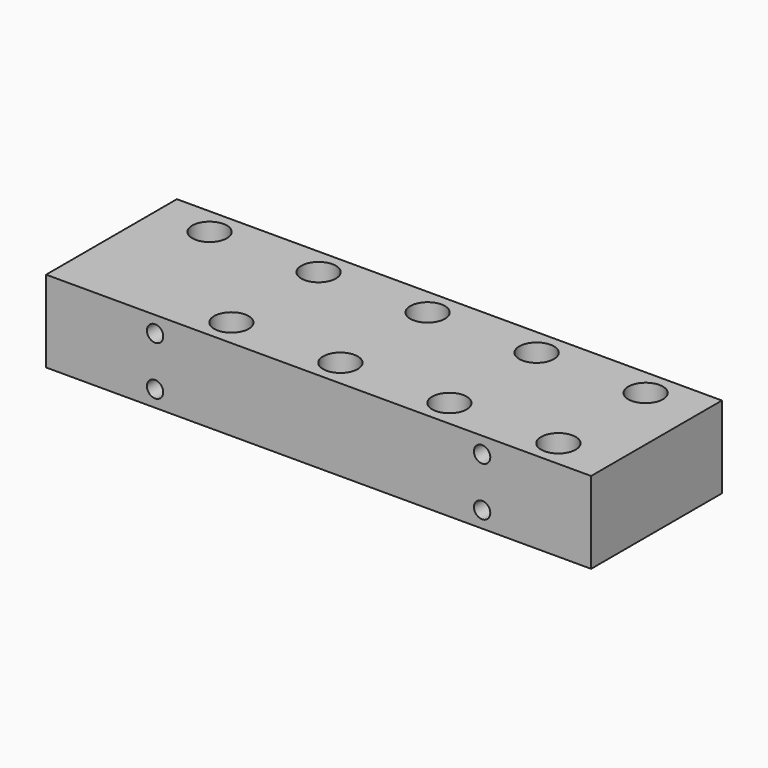
from build123d import *

# Parameters (mm, degrees)
F0_W     = 400
F0_H     = 120
F0_R     = 12.7
F0_R_2   = 6.35
F1_DEPTH = 60
F3_D     = 12
F3_DEPTH = 80
F3_TIP   = 3.6051637142
F4_D     = 25.4
F4_DEPTH = 30
F4_TIP   = 7.6309298617
F5_D     = 12.7


with BuildPart() as f1:
    # F0 (on Top) → F1 (new body)
    with BuildSketch(Plane.XY):
        with Locations((0, 60)):
            Rectangle(F0_W, F0_H)
        with Locations((-80, 20)):
            Circle(F0_R, mode=Mode.SUBTRACT)
        with Locations((0, 20)):
            Circle(F0_R, mode=Mode.SUBTRACT)
        with Locations((80, 20)):
            Circle(F0_R, mode=Mode.SUBTRACT)
        with Locations((160, 20)):
            Circle(F0_R, mode=Mode.SUBTRACT)
        with Locations((-160, 100)):
            Circle(F0_R, mode=Mode.SUBTRACT)
        with Locations((-80, 100)):
            Circle(F0_R, mode=Mode.SUBTRACT)
        with Locations((0, 100)):
            Circle(F0_R, mode=Mode.SUBTRACT)
        with Locations((80, 100)):
            Circle(F0_R, mode=Mode.SUBTRACT)
        with Locations((160, 100)):
            Circle(F0_R, mode=Mode.SUBTRACT)
        with Locations((-160, 100)):
            Circle(F0_R)
        with Locations((-160, 100)):
            Circle(F0_R_2, mode=Mode.SUBTRACT)
        with Locations((-80, 100)):
            Circle(F0_R)
        with Locations((-80, 100)):
            Circle(F0_R_2, mode=Mode.SUBTRACT)
        with Locations((0, 100)):
            Circle(F0_R)
        with Locations((0, 100)):
            Circle(F0_R_2, mode=Mode.SUBTRACT)
        with Locations((80, 100)):
            Circle(F0_R)
        with Locations((80, 100)):
            Circle(F0_R_2, mode=Mode.SUBTRACT)
        with Locations((160, 100)):
            Circle(F0_R)
        with Locations((160, 100)):
            Circle(F0_R_2, mode=Mode.SUBTRACT)
        with Locations((80, 20)):
            Circle(F0_R)
        with Locations((80, 20)):
            Circle(F0_R_2, mode=Mode.SUBTRACT)
        with Locations((160, 20)):
            Circle(F0_R)
        with Locations((160, 20)):
            Circle(F0_R_2, mode=Mode.SUBTRACT)
        with Locations((0, 20)):
            Circle(F0_R)
        with Locations((0, 20)):
            Circle(F0_R_2, mode=Mode.SUBTRACT)
        with Locations((-80, 20)):
            Circle(F0_R)
        with Locations((-80, 20)):
            Circle(F0_R_2, mode=Mode.SUBTRACT)
        with Locations((-160, 100)):
            Circle(F0_R_2)
        with Locations((-80, 100)):
            Circle(F0_R_2)
        with Locations((0, 100)):
            Circle(F0_R_2)
        with Locations((80, 100)):
            Circle(F0_R_2)
        with Locations((160, 100)):
            Circle(F0_R_2)
        with Locations((80, 20)):
            Circle(F0_R_2)
        with Locations((160, 20)):
            Circle(F0_R_2)
        with Locations((0, 20)):
            Circle(F0_R_2)
        with Locations((-80, 20)):
            Circle(F0_R_2)
    extrude(amount=-F1_DEPTH)

    # F3
    with Locations(Plane.XZ):
        with Locations((-120, -12), (-120, -48), (120, -48), (120, -12)):
            Hole(F3_D / 2, depth=F3_DEPTH)
            with Locations((0, 0, -(F3_DEPTH + F3_TIP / 2))):  # 118° drill point
                Cone(0, F3_D / 2, F3_TIP, mode=Mode.SUBTRACT)

    # F4
    with Locations(Plane.XY):
        with Locations((-160, 100), (-80, 100), (0, 100), (80, 100), (160, 100), (160, 20), (80, 20), (0, 20), (-80, 20)):
            Hole(F4_D / 2, depth=F4_DEPTH)
            with Locations((0, 0, -(F4_DEPTH + F4_TIP / 2))):  # 118° drill point
                Cone(0, F4_D / 2, F4_TIP, mode=Mode.SUBTRACT)

    # F5 (through all)
    with Locations(Plane.XY):
        with Locations((-80, 20), (-80, 100), (-160, 100), (0, 100), (0, 20), (80, 20), (80, 100), (160, 100), (160, 20)):
            Hole(F5_D / 2)


solid = f1.part
